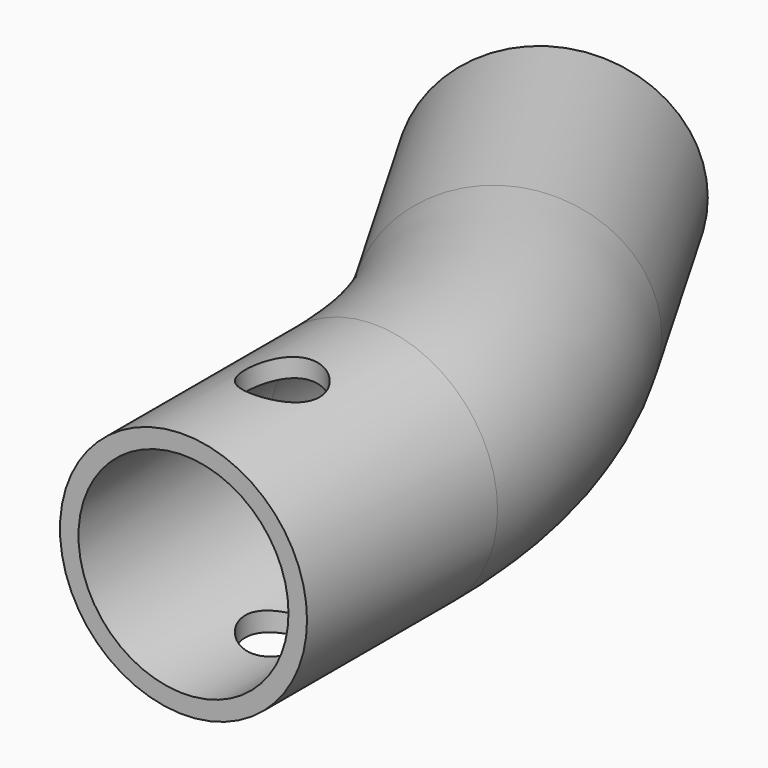
from build123d import *

# Parameters (mm, degrees)
F1_R          = 5
F1_R_2        = 4.25
F3_R          = 1.5
F4_DEPTH      = 25
F4_DEPTH_BACK = 25


with BuildPart() as f2:
    # F2: sweep along a path in F0
    with BuildLine(Plane.XY) as f2_path:
        Line((0, 0), (0, 9.6410161514))
        ThreePointArc((0, 9.6410161514), (-0.6814834742, 14.8173970534), (-2.6794919243, 19.6410161514))
        Line((-2.6794919243, 19.6410161514), (-7.5, 27.9903810568))
    # F1 (on Front) → F2 (sweep)
    with BuildSketch(Plane.XZ):
        Circle(F1_R)
        Circle(F1_R_2, mode=Mode.SUBTRACT)
    sweep(path=f2_path.line)

    # F3 (on Top) → F4 (cut, two sides)
    with BuildSketch(Plane.XY) as f4_sk:
        with Locations((0, 5)):
            Circle(F3_R)
    extrude(amount=-F4_DEPTH, mode=Mode.SUBTRACT)
    extrude(f4_sk.sketch, amount=F4_DEPTH_BACK, mode=Mode.SUBTRACT)


solid = f2.part
